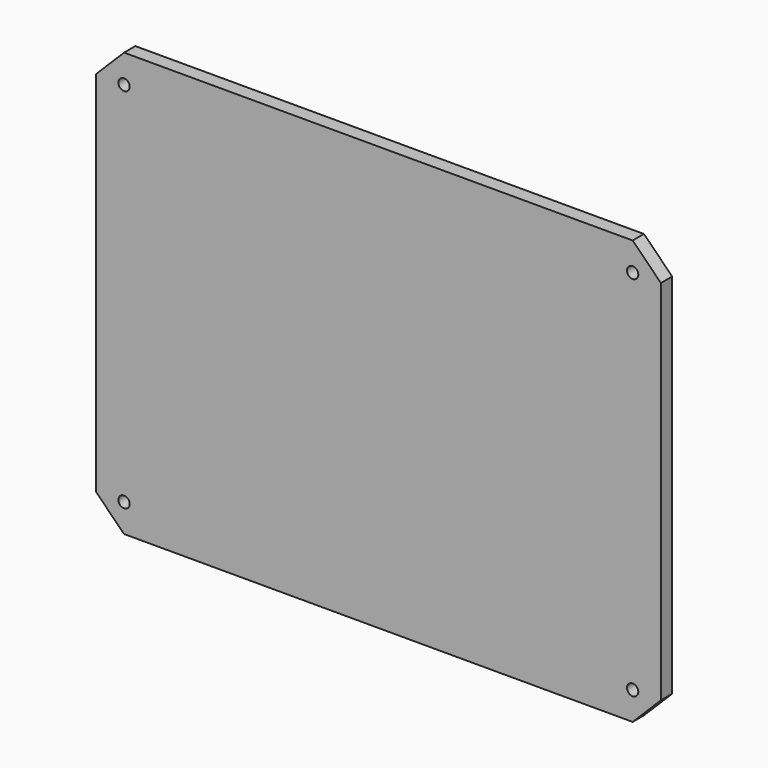
from build123d import *

# Parameters (mm, degrees)
F0_W     = 200
F0_H     = 150
F1_DEPTH = 5
F2_SIZE  = 10
F4_D     = 4
F4_DEPTH = 8


with BuildPart() as f1:
    # F0 (on Front) → F1 (new body)
    with BuildSketch(Plane.XZ):
        Rectangle(F0_W, F0_H)
    extrude(amount=F1_DEPTH)

    # F2
    f2_edges = [f1.edges().sort_by_distance(p)[0] for p in [
        (-100, -2.5, 75),
        (100, -2.5, 75),
        (-100, -2.5, -75),
        (100, -2.5, -75),
    ]]
    chamfer(f2_edges, length=F2_SIZE)

    # F4
    with Locations(Plane.XZ.offset(5)):
        with Locations((90, -65), (-90, -65), (-90, 65), (90, 65)):
            Hole(F4_D / 2, depth=F4_DEPTH)


solid = f1.part
